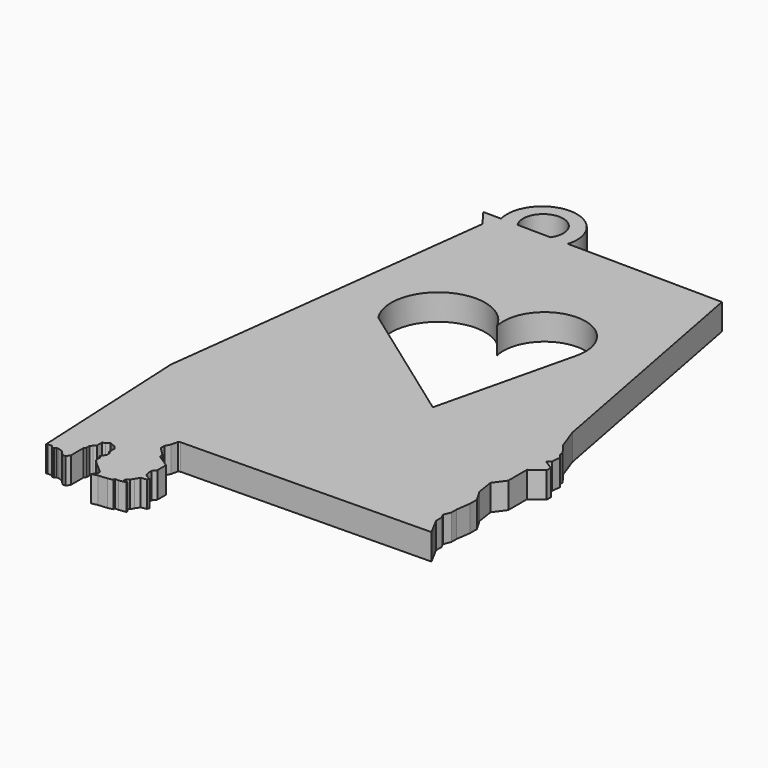
from build123d import *

# Parameters (mm, degrees)
F1_DEPTH = 2.54


with BuildPart() as f1:
    # F0 (on Top) → F1 (new body)
    with BuildSketch(Plane.XY):
        with BuildLine():
            Line((-13.030899, 23.250838), (-14.7814, 23.26861))
            Line((-14.7814, 23.26861), (-13.591297, 21.67334))
            Line((-13.591297, 21.67334), (-17.65191, -11.280064))
            Line((-17.65191, -11.280064), (-16.861185, -27.526684))
            Line((-16.861185, -27.526684), (-16.776092, -27.455773))
            Line((-16.776092, -27.455773), (-16.336445, -27.455773))
            Line((-16.336445, -27.455773), (-16.166259, -27.660001))
            Line((-16.166259, -27.660001), (-15.981892, -27.660001))
            Line((-15.981892, -27.660001), (-15.854253, -27.512502))
            Line((-15.854253, -27.512502), (-15.64152, -27.512502))
            Line((-15.64152, -27.512502), (-15.208855, -27.660001))
            Line((-15.208855, -27.660001), (-14.767447, -28.138192))
            Line((-14.767447, -28.138192), (-14.454785, -28.138192))
            Line((-14.454785, -28.138192), (-14.234081, -27.762407))
            Line((-14.234081, -27.762407), (-14.234081, -26.243819))
            Line((-14.234081, -26.243819), (-14.086945, -26.03608))
            Line((-14.086945, -26.03608), (-14.086945, -25.673669))
            Line((-14.086945, -25.673669), (-13.921417, -25.489749))
            Line((-13.921417, -25.489749), (-13.700713, -25.269045))
            Line((-13.700713, -25.269045), (-13.700713, -24.882814))
            Line((-13.700713, -24.882814), (-13.700713, -24.662109))
            Line((-13.700713, -24.662109), (-13.443226, -24.519552))
            Line((-13.443226, -24.519552), (-13.148954, -24.275878))
            Line((-13.148954, -24.275878), (-12.909858, -24.404623))
            Line((-12.909858, -24.404623), (-12.597195, -24.519552))
            Line((-12.597195, -24.519552), (-12.321316, -24.84603))
            Line((-12.321316, -24.84603), (-12.321316, -25.489749))
            Line((-12.321316, -25.489749), (-12.148302, -25.576962))
            Line((-12.148302, -25.576962), (-12.148302, -26.03608))
            Line((-12.148302, -26.03608), (-12.424181, -26.459094))
            Line((-12.424181, -26.459094), (-12.424181, -26.551055))
            Line((-12.424181, -26.551055), (-12.258654, -26.661407))
            Line((-12.258654, -26.661407), (-12.258654, -27.194774))
            Line((-12.258654, -27.194774), (-11.872422, -27.581004))
            Line((-11.872422, -27.581004), (-10.787295, -28.537387))
            Line((-10.787295, -28.537387), (-10.787295, -28.850051))
            Line((-10.787295, -28.850051), (-11.099959, -29.217891))
            Line((-11.099959, -29.217891), (-10.5482, -29.089147))
            Line((-10.5482, -29.089147), (-9.646993, -29.015578))
            Line((-9.646993, -29.015578), (-9.168802, -28.905228))
            Line((-9.168802, -28.905228), (-9.168802, -28.7397))
            Line((-9.168802, -28.7397), (-8.812965, -28.7397))
            Line((-8.812965, -28.7397), (-8.12046, -28.629348))
            Line((-8.12046, -28.629348), (-8.12046, -28.537387))
            Line((-8.12046, -28.537387), (-8.488759, -28.454099))
            Line((-8.488759, -28.454099), (-8.488759, -28.239436))
            Line((-8.488759, -28.239436), (-8.202543, -28.096328))
            Line((-8.202543, -28.096328), (-8.01173, -27.762407))
            Line((-8.01173, -27.762407), (-7.749365, -27.356932))
            Line((-7.749365, -27.356932), (-7.225457, -27.271397))
            Line((-7.225457, -27.271397), (-7.129228, -27.046863))
            Line((-7.129228, -27.046863), (-7.463148, -26.903754))
            Line((-7.463148, -26.903754), (-7.725514, -26.689092))
            Line((-7.725514, -26.689092), (-7.820919, -26.379023))
            Line((-7.820919, -26.379023), (-7.820919, -25.925847))
            Line((-7.820919, -25.925847), (-7.548839, -25.576962))
            Line((-7.548839, -25.576962), (-7.548839, -24.519552))
            Line((-7.548839, -24.519552), (-8.812965, -23.684751))
            Line((-8.812965, -23.684751), (-8.812965, -23.374682))
            Line((-8.812965, -23.374682), (-9.647765, -22.539882))
            Line((-9.647765, -22.539882), (-9.647765, -22.110555))
            Line((-9.647765, -22.110555), (-9.3854, -21.609675))
            Line((-9.3854, -21.609675), (-9.242291, -20.965688))
            Line((-9.242291, -20.965688), (-9.039888, -20.864896))
            Line((-9.039888, -20.864896), (15.167137, -20.501176))
            Line((15.167137, -20.501176), (14.270123, -18.830877))
            Line((14.270123, -18.830877), (14.270123, -18.181315))
            Line((14.270123, -18.181315), (14.053603, -17.717343))
            Line((14.053603, -17.717343), (14.331986, -17.005919))
            Line((14.331986, -17.005919), (14.331986, -16.387288))
            Line((14.331986, -16.387288), (14.528844, -14.995371))
            Line((14.528844, -14.995371), (14.528844, -14.144757))
            Line((14.528844, -14.144757), (13.852579, -13.000309))
            Line((13.852579, -13.000309), (13.592477, -11.335658))
            Line((13.592477, -11.335658), (14.424803, -10.19121))
            Line((14.424803, -10.19121), (14.424803, -7.902314))
            Line((14.424803, -7.902314), (15.641566, -7.017968))
            Line((15.641566, -7.017968), (15.641566, -6.522429))
            Line((15.641566, -6.522429), (14.685183, -5.915494))
            Line((14.685183, -5.915494), (15.053023, -5.621222))
            Line((15.053023, -5.621222), (15.144982, -4.793584))
            Line((15.144982, -4.793584), (14.8241, -4.396295))
            Line((14.8241, -4.396295), (14.8241, -4.056049))
            Line((14.8241, -4.056049), (14.019881, -2.973447))
            Line((14.019881, -2.973447), (13.283001, -0.933324))
            Line((13.283001, -0.933324), (8.720862, 23.029998))
            Line((8.720862, 23.029998), (-6.454206, 23.184066))
            ThreePointArc((-6.454206, 23.184066), (-9.698639, 27.542757), (-13.030899, 23.250838))
        make_face()
        with BuildLine():
            ThreePointArc((-2.196216, 9.203731), (1.702882, 14.145155), (5.601981, 9.203731))
            Line((5.601981, 9.203731), (2.364994, -4.332762))
            Line((2.364994, -4.332762), (-10.141549, 4.642522))
            ThreePointArc((-10.141549, 4.642522), (-8.599849, 11.157714), (-2.196216, 9.203731))
        make_face(mode=Mode.SUBTRACT)
        with BuildLine():
            ThreePointArc((-11.403755, 23.234318), (-9.755181, 26.28218), (-8.168829, 23.201475))
            Line((-8.168829, 23.201475), (-11.403755, 23.234318))
        make_face(mode=Mode.SUBTRACT)
    extrude(amount=F1_DEPTH)


solid = f1.part
